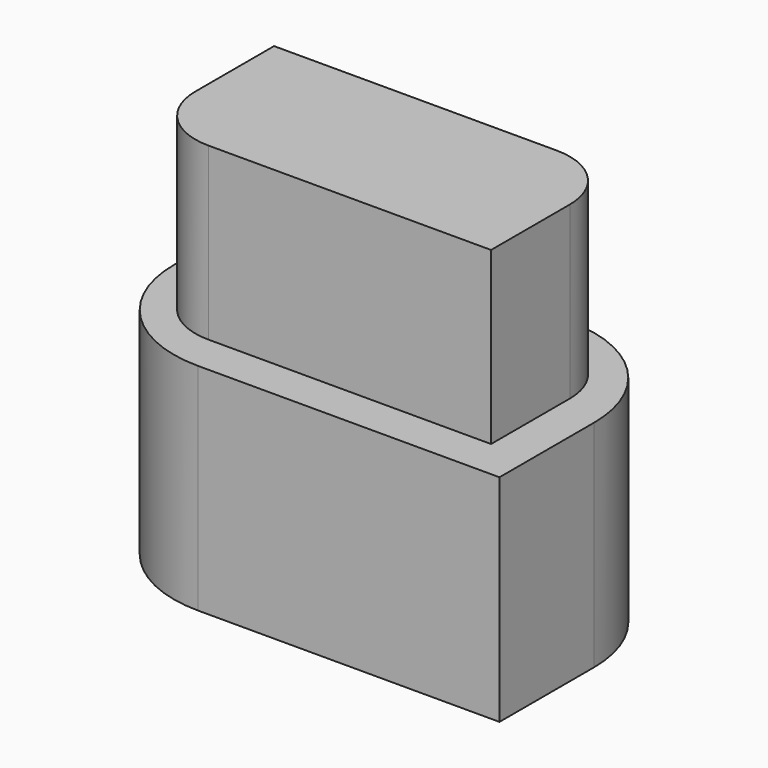
from build123d import *

# Parameters (mm, degrees)
F0_W     = 91.7905736715
F0_H     = 46.7539317906
F1_DEPTH = 52.07
F2_R     = 26.3680405282
F3_W     = 75.4797728732
F3_H     = 35.4631096125
F4_DEPTH = 25.4
F5_DEPTH = 11.684
F6_R     = 14.1038356314
F7_R     = 14.097
F8_T     = -2.54


with BuildPart() as f1:
    # F0 (on Front) → F1 (new body)
    with BuildSketch(Plane.XZ):
        with Locations((-29.504111968, 27.0913075656)):
            Rectangle(F0_W, F0_H)
    extrude(amount=F1_DEPTH)

    # F2
    f2_edges = [f1.edges().sort_by_distance(p)[0] for p in [
        (-75.399399, -52.07, 27.091308),
        (16.391175, 0, 27.091308),
    ]]
    fillet(f2_edges, radius=F2_R)

    # F3 (on face) → F4 (join)
    with BuildSketch(Plane.XY.offset(50.4682734609)):
        with Locations((-30.0831585191, -25.7032476366)):
            Rectangle(F3_W, F3_H)
    extrude(amount=F4_DEPTH)

    # F5 (add): a face of the model
    f5_faces = [f1.faces().sort_by_distance(p)[0] for p in [
        (-30.0831585191, -25.7032476366, 75.8682734609),
    ]]
    extrude(f5_faces, amount=F5_DEPTH)

    # F6
    f6_edges = [f1.edges().sort_by_distance(p)[0] for p in [
        (-67.823045, -43.434802, 69.010273),
    ]]
    fillet(f6_edges, radius=F6_R)

    # F7
    f7_edges = [f1.edges().sort_by_distance(p)[0] for p in [
        (7.656728, -7.971693, 69.010273),
    ]]
    fillet(f7_edges, radius=F7_R)

    # F8
    f8_openings = [f1.faces().sort_by_distance(p)[0] for p in [
        (-29.504112, -26.035, 3.714342),
    ]]
    offset(amount=F8_T, openings=f8_openings, kind=Kind.INTERSECTION)


solid = f1.part
